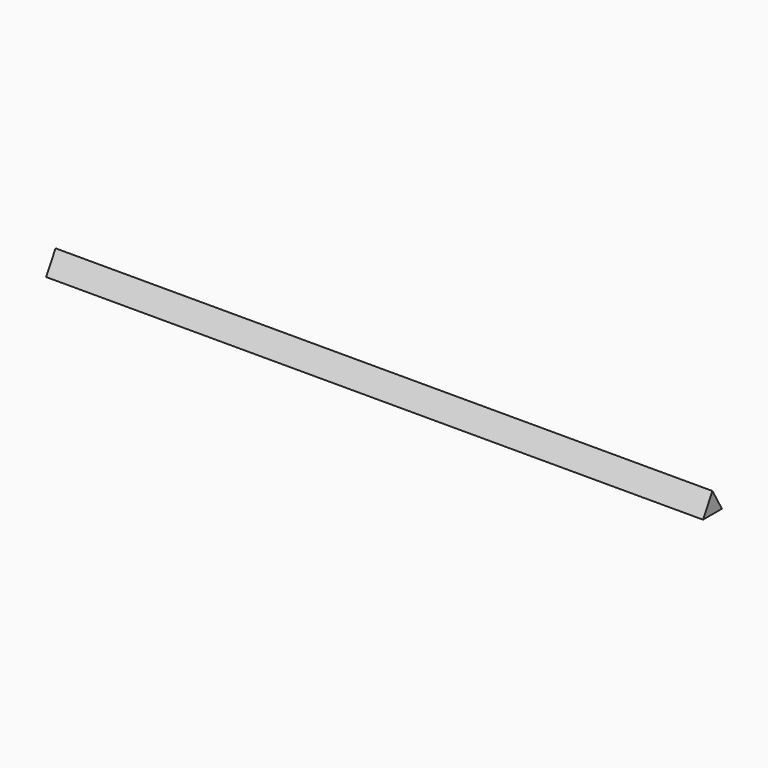
from build123d import *

# Parameters (mm, degrees)
F1_DEPTH = 125


with BuildPart() as f1:
    # F0 (on Right) → F1 (new body, symmetric)
    with BuildSketch(Plane.YZ):
        Polygon((4.5, 0.388696), (0, 8.182925), (-4.5, 0.388696), align=None)
    extrude(amount=F1_DEPTH, both=True)


solid = f1.part
